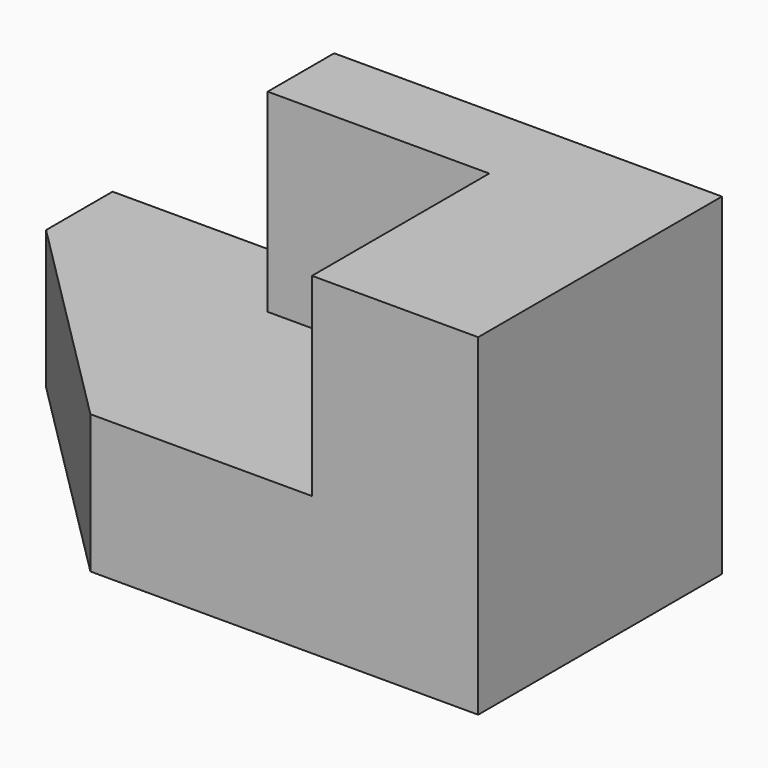
from build123d import *

# Parameters (mm, degrees)
F1_DEPTH = 1524
F3_DEPTH = 635


with BuildPart() as f1:
    # F0 (on Top) → F1 (new body)
    with BuildSketch(Plane.XY):
        Polygon((-762, 0), (0, 0), (0, 1397), (-1778, 1397), (-1778, 1016), (-762, 1016), align=None)
    extrude(amount=F1_DEPTH)

    # F2 (on face) → F3 (join)
    with BuildSketch(Plane(origin=(0, 0, 0), x_dir=(1, 0, 0), z_dir=(0, 0, -1))):
        Polygon((-2794, -1397), (-1778, -1397), (-1778, -1016), (-762, -1016), (-762, 0), (-1778, 0), (-2794, -1016), align=None)
    extrude(amount=-F3_DEPTH)


solid = f1.part
